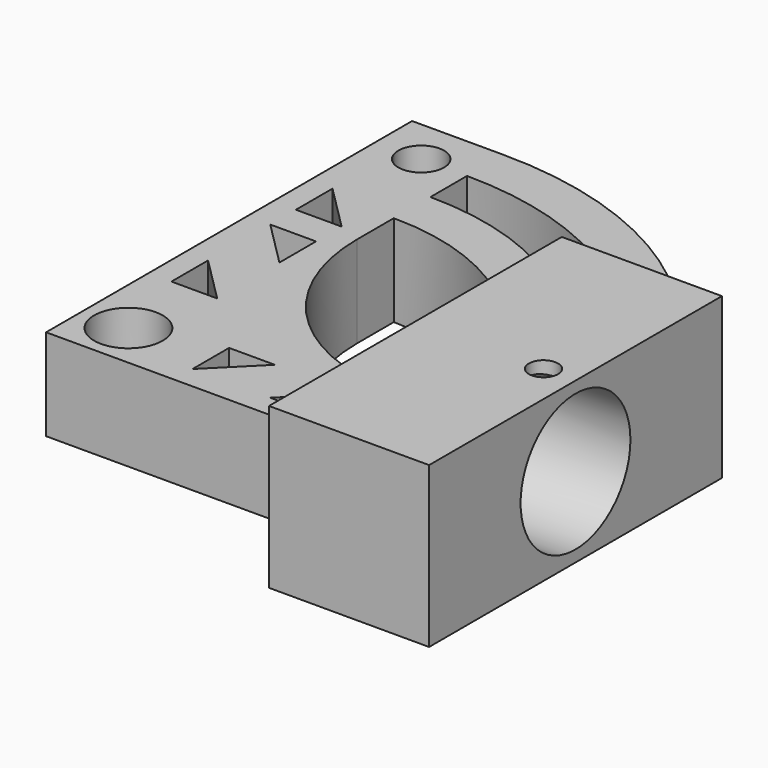
from build123d import *

# Parameters (mm, degrees)
F0_R     = 7.5
F1_DEPTH = 20
F2_DEPTH = 35
F3_R     = 15
F4_DEPTH = 25
F5_R     = 3.175
F6_DEPTH = 31.5


with BuildPart() as f1:
    # F0 (on Top) → F1 (new body)
    with BuildSketch(Plane.XY):
        with BuildLine():
            Line((0, 40), (0, 50))
            ThreePointArc((0, 50), (-5.8547207654, 49.6560393584), (-11.6288897904, 48.6288897904))
            Line((-11.6288897904, 48.6288897904), (-5, 42))
            Line((-5, 42), (-15, 42))
            Line((-15, 42), (-15, 47.6969600708))
            ThreePointArc((-15, 47.6969600708), (-17.5249921621, 46.8281395073), (-20, 45.8257569496))
            Line((-20, 45.8257569496), (-20, -20))
            Line((-20, -20), (0, -20))
            Line((0, -20), (43.72135955, -20))
            Line((43.72135955, -20), (44.72135955, -20))
            Line((44.72135955, -20), (44.72135955, 1))
            ThreePointArc((44.72135955, 1), (44.4284663312, 0.2928932188), (43.72135955, 0))
            Line((43.72135955, 0), (40, 0))
            ThreePointArc((40, 0), (11.7157287525, 11.7157287525), (0, 40))
        make_face()
        with Locations((-10, -10)):
            Circle(F0_R, mode=Mode.SUBTRACT)
        Polygon((8, -5), (18, -5), (8, -15), align=None, mode=Mode.SUBTRACT)
        Polygon((35, -15), (25, -15), (35, -5), align=None, mode=Mode.SUBTRACT)
        Polygon((-15, 8), (-15, 18), (-5, 8), align=None, mode=Mode.SUBTRACT)
        Polygon((-5, 35), (-5, 25), (-15, 35), align=None, mode=Mode.SUBTRACT)
        with BuildLine():
            Line((0, 50), (0, 60))
            ThreePointArc((0, 60), (-10.1461187235, 59.1359135792), (-20, 56.5685424949))
            Line((-20, 56.5685424949), (-20, 45.8257569496))
            ThreePointArc((-20, 45.8257569496), (-17.5249921621, 46.8281395073), (-15, 47.6969600708))
            Line((-15, 47.6969600708), (-15, 52))
            Line((-15, 52), (-11.6288897904, 48.6288897904))
            ThreePointArc((-11.6288897904, 48.6288897904), (-5.8547207654, 49.6560393584), (0, 50))
        make_face()
        with BuildLine():
            Line((0, 60), (0, 70))
            ThreePointArc((0, 70), (-2.5032041292, 69.9552283185), (-5.0032061825, 69.8209705454))
            ThreePointArc((-5.0032061825, 69.8209705454), (-9.2928932188, 65.0502525317), (-14.7467938175, 68.4290294546))
            ThreePointArc((-14.7467938175, 68.4290294546), (-17.3864463232, 67.8064265704), (-20, 67.082039325))
            Line((-20, 67.082039325), (-20, 56.5685424949))
            ThreePointArc((-20, 56.5685424949), (-10.1461187235, 59.1359135792), (0, 60))
        make_face()
        with BuildLine():
            Line((0, 70), (0, 80))
            ThreePointArc((0, 80), (-10.0803433986, 79.3623757014), (-20, 77.4596669241))
            Line((-20, 77.4596669241), (-20, 67.082039325))
            ThreePointArc((-20, 67.082039325), (-17.3864463232, 67.8064265704), (-14.7467938175, 68.4290294546))
            ThreePointArc((-14.7467938175, 68.4290294546), (-10.7956226846, 74.936292591), (-5, 70))
            ThreePointArc((-5, 70), (-5.0008016099, 69.9104709192), (-5.0032061825, 69.8209705454))
            ThreePointArc((-5.0032061825, 69.8209705454), (-2.5032041292, 69.9552283185), (0, 70))
        make_face()
        with BuildLine():
            ThreePointArc((-20, 77.4596669241), (-10.0803433986, 79.3623757014), (0, 80))
            Line((0, 80), (-20, 80))
            Line((-20, 80), (-20, 77.4596669241))
        make_face()
        with BuildLine():
            ThreePointArc((50, 0), (48.6624494734, 11.4876460274), (44.72135955, 22.360679775))
            Line((44.72135955, 22.360679775), (44.72135955, 1))
            Line((44.72135955, 1), (44.72135955, -20))
            Line((44.72135955, -20), (44.72135955, -21))
            Line((44.72135955, -21), (44.72135955, -22.360679775))
            ThreePointArc((44.72135955, -22.360679775), (48.6624494734, -11.4876460274), (50, 0))
        make_face()
        with BuildLine():
            ThreePointArc((60, 0), (56.0503415378, 21.4093253864), (44.72135955, 40))
            Line((44.72135955, 40), (44.72135955, 22.360679775))
            ThreePointArc((44.72135955, 22.360679775), (48.6624494734, 11.4876460274), (50, 0))
            ThreePointArc((50, 0), (48.6624494734, -11.4876460274), (44.72135955, -22.360679775))
            Line((44.72135955, -22.360679775), (44.72135955, -40))
            ThreePointArc((44.72135955, -40), (56.0503415378, -21.4093253864), (60, 0))
        make_face()
        with BuildLine():
            ThreePointArc((70, 0), (66.7877004117, 20.9619434622), (57.4456264654, 40))
            Line((57.4456264654, 40), (44.72135955, 40))
            ThreePointArc((44.72135955, 40), (56.0503415378, 21.4093253864), (60, 0))
            ThreePointArc((60, 0), (56.0503415378, -21.4093253864), (44.72135955, -40))
            Line((44.72135955, -40), (57.4456264654, -40))
            ThreePointArc((57.4456264654, -40), (66.7877004117, -20.9619434622), (70, 0))
        make_face()
        with BuildLine():
            ThreePointArc((79.72135955, 6.6711941585), (76.3426815131, 23.9122349309), (69.2820323028, 40))
            Line((69.2820323028, 40), (57.4456264654, 40))
            ThreePointArc((57.4456264654, 40), (66.7877004117, 20.9619434622), (70, 0))
            ThreePointArc((70, 0), (66.7877004117, -20.9619434622), (57.4456264654, -40))
            Line((57.4456264654, -40), (69.2820323028, -40))
            ThreePointArc((69.2820323028, -40), (76.3426815131, -23.9122349309), (79.72135955, -6.6711941585))
            Line((79.72135955, -6.6711941585), (79.72135955, 6.6711941585))
        make_face()
        with BuildLine():
            ThreePointArc((69.2820323028, 40), (40, 69.2820323028), (0, 80))
            Line((0, 80), (0, 70))
            ThreePointArc((0, 70), (32.403703492, 62.04836823), (57.4456264654, 40))
            Line((57.4456264654, 40), (69.2820323028, 40))
        make_face()
        with BuildLine():
            ThreePointArc((44.72135955, 40), (24.4948974278, 54.7722557505), (0, 60))
            Line((0, 60), (0, 50))
            ThreePointArc((0, 50), (26.286555606, 42.5325404176), (44.72135955, 22.360679775))
            Line((44.72135955, 22.360679775), (44.72135955, 40))
        make_face()
        with BuildLine():
            Line((79.72135955, 40), (69.2820323028, 40))
            ThreePointArc((69.2820323028, 40), (76.3426815131, 23.9122349309), (79.72135955, 6.6711941585))
            Line((79.72135955, 6.6711941585), (79.72135955, 40))
        make_face()
        with BuildLine():
            ThreePointArc((79.72135955, -6.6711941585), (76.3426815131, -23.9122349309), (69.2820323028, -40))
            Line((69.2820323028, -40), (79.72135955, -40))
            Line((79.72135955, -40), (79.72135955, -6.6711941585))
        make_face()
    extrude(amount=F1_DEPTH)

    # F0 (on Top) → F2 (join)
    with BuildSketch(Plane.XY):
        with BuildLine():
            ThreePointArc((50, 0), (48.6624494734, 11.4876460274), (44.72135955, 22.360679775))
            Line((44.72135955, 22.360679775), (44.72135955, 1))
            Line((44.72135955, 1), (44.72135955, -20))
            Line((44.72135955, -20), (44.72135955, -21))
            Line((44.72135955, -21), (44.72135955, -22.360679775))
            ThreePointArc((44.72135955, -22.360679775), (48.6624494734, -11.4876460274), (50, 0))
        make_face()
        with BuildLine():
            ThreePointArc((60, 0), (56.0503415378, 21.4093253864), (44.72135955, 40))
            Line((44.72135955, 40), (44.72135955, 22.360679775))
            ThreePointArc((44.72135955, 22.360679775), (48.6624494734, 11.4876460274), (50, 0))
            ThreePointArc((50, 0), (48.6624494734, -11.4876460274), (44.72135955, -22.360679775))
            Line((44.72135955, -22.360679775), (44.72135955, -40))
            ThreePointArc((44.72135955, -40), (56.0503415378, -21.4093253864), (60, 0))
        make_face()
        with BuildLine():
            ThreePointArc((70, 0), (66.7877004117, 20.9619434622), (57.4456264654, 40))
            Line((57.4456264654, 40), (44.72135955, 40))
            ThreePointArc((44.72135955, 40), (56.0503415378, 21.4093253864), (60, 0))
            ThreePointArc((60, 0), (56.0503415378, -21.4093253864), (44.72135955, -40))
            Line((44.72135955, -40), (57.4456264654, -40))
            ThreePointArc((57.4456264654, -40), (66.7877004117, -20.9619434622), (70, 0))
        make_face()
        with BuildLine():
            ThreePointArc((79.72135955, 6.6711941585), (76.3426815131, 23.9122349309), (69.2820323028, 40))
            Line((69.2820323028, 40), (57.4456264654, 40))
            ThreePointArc((57.4456264654, 40), (66.7877004117, 20.9619434622), (70, 0))
            ThreePointArc((70, 0), (66.7877004117, -20.9619434622), (57.4456264654, -40))
            Line((57.4456264654, -40), (69.2820323028, -40))
            ThreePointArc((69.2820323028, -40), (76.3426815131, -23.9122349309), (79.72135955, -6.6711941585))
            Line((79.72135955, -6.6711941585), (79.72135955, 6.6711941585))
        make_face()
        with BuildLine():
            ThreePointArc((79.72135955, -6.6711941585), (76.3426815131, -23.9122349309), (69.2820323028, -40))
            Line((69.2820323028, -40), (79.72135955, -40))
            Line((79.72135955, -40), (79.72135955, -6.6711941585))
        make_face()
        with BuildLine():
            Line((79.72135955, 40), (69.2820323028, 40))
            ThreePointArc((69.2820323028, 40), (76.3426815131, 23.9122349309), (79.72135955, 6.6711941585))
            Line((79.72135955, 6.6711941585), (79.72135955, 40))
        make_face()
    extrude(amount=F2_DEPTH)

    # F3 (on face) → F4 (cut)
    with BuildSketch(Plane.YZ.offset(79.72135955)):
        with Locations((0, 17.5)):
            Circle(F3_R)
    extrude(amount=-F4_DEPTH, mode=Mode.SUBTRACT)

    # F5 (on face) → F6 (cut)
    with BuildSketch(Plane.XY.offset(35)):
        with Locations((72.72135955, 0)):
            Circle(F5_R)
    extrude(amount=-F6_DEPTH, mode=Mode.SUBTRACT)


solid = f1.part
